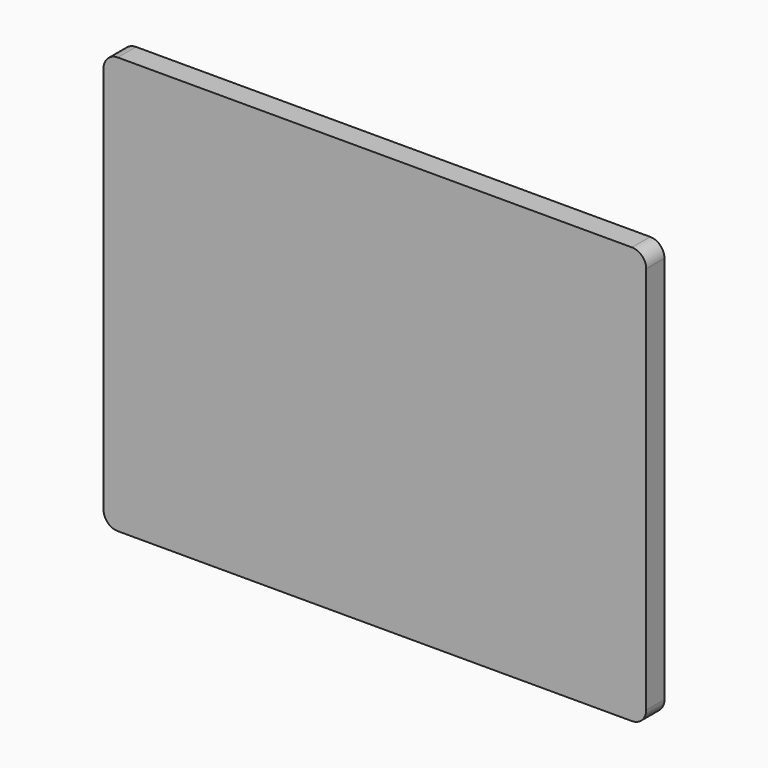
from build123d import *

# Parameters (mm, degrees)
F1_DEPTH = 10.16
F2_SCALE = 1.1


with BuildPart() as f1:
    # F0 (on Front) → F1 (new body)
    with BuildSketch(Plane.XZ):
        with BuildLine():
            ThreePointArc((120.65, 86.36), (118.7901280605, 90.8501280605), (114.3, 92.71))
            Line((114.3, 92.71), (-114.3, 92.71))
            ThreePointArc((-114.3, 92.71), (-118.7901280605, 90.8501280605), (-120.65, 86.36))
            Line((-120.65, 86.36), (-120.65, -86.36))
            ThreePointArc((-120.65, -86.36), (-118.7901280605, -90.8501280605), (-114.3, -92.71))
            Line((-114.3, -92.71), (114.3, -92.71))
            ThreePointArc((114.3, -92.71), (118.7901280605, -90.8501280605), (120.65, -86.36))
            Line((120.65, -86.36), (120.65, 86.36))
        make_face()
    extrude(amount=F1_DEPTH)


with BuildPart() as f1_1:
    # F2: moved
    add(f1.part.scale(F2_SCALE))


solid = f1_1.part
